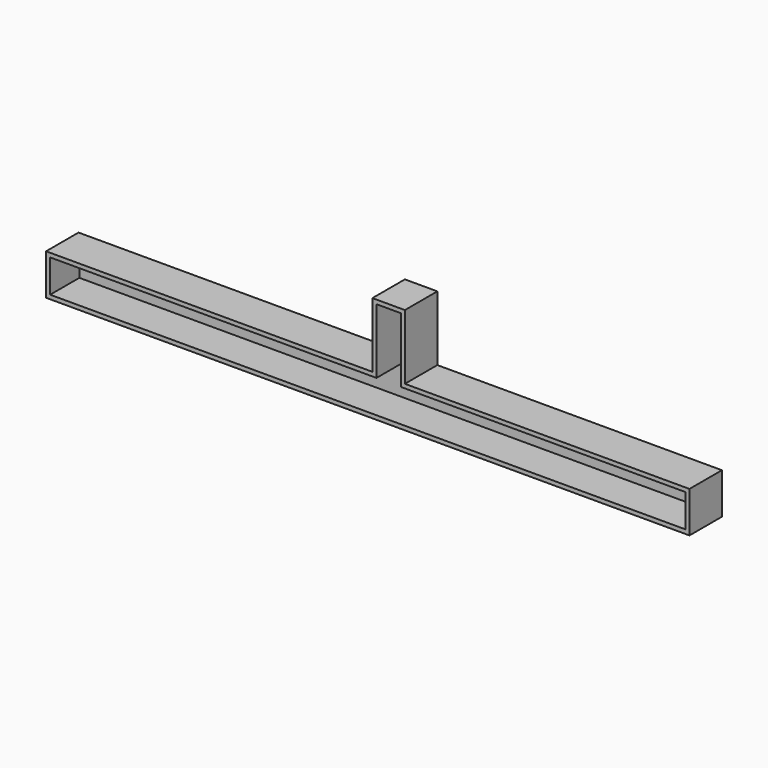
from build123d import *

# Parameters (mm, degrees)
F1_DEPTH = 25
F2_T     = -2.5


with BuildPart() as f1:
    # F0 (on Front) → F1 (new body)
    with BuildSketch(Plane.XZ):
        Polygon((10, 40), (-10, 40), (-10, 0), (-211.1074434719, 0), (-211.1074434719, -25.2444452331), (185.367203297, -25.2444452331), (185.367203297, 0), (10, 0), align=None)
    extrude(amount=F1_DEPTH)

    # F2
    f2_openings = [f1.faces().sort_by_distance(p)[0] for p in [
        (-11.917552, -25, -10.207725),
    ]]
    offset(amount=F2_T, openings=f2_openings, kind=Kind.INTERSECTION)


solid = f1.part
